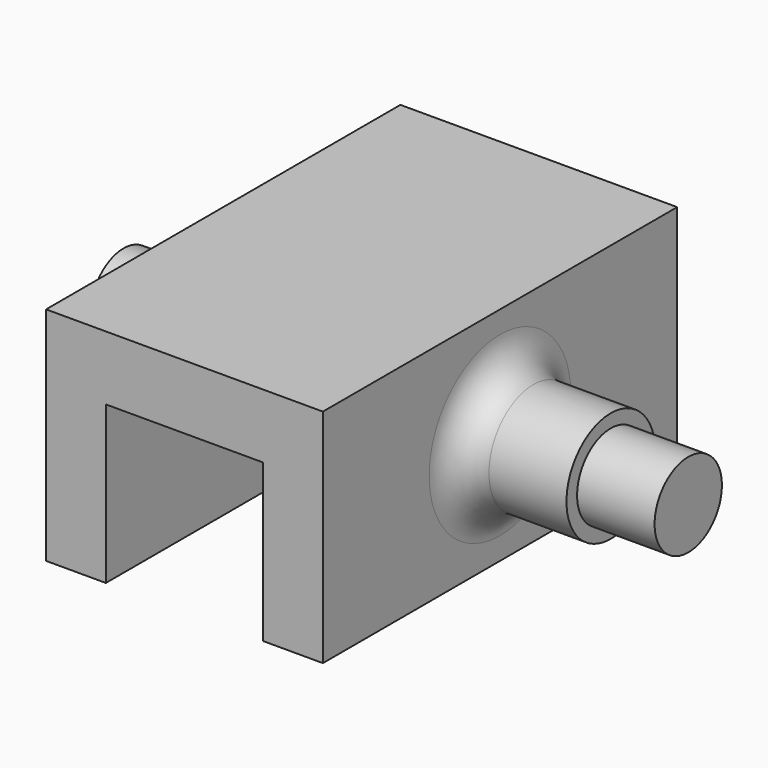
from build123d import *

# Parameters (mm, degrees)
SKETCH_W              = 25
SKETCH_H              = 40
PAD_DEPTH             = 20
SKETCH001_R           = 3.8
PAD001_DEPTH          = 17
PAD001_DEPTH_BACK     = 34
SKETCH002_R           = 5
PAD002_DEPTH          = 10
PAD002_DEPTH_BACK     = 27
SKETCH003_W           = 14.2
SKETCH003_H           = 14.2
POCKET_DEPTH          = 50
FILLET003_R           = 3
FILLET004_R           = 1
CLONE_PLACEMENT_ANGLE = 180


with BuildPart() as part:
    # Sketch → Pad (new body)
    with BuildSketch(Plane.XY):
        Rectangle(SKETCH_W, SKETCH_H)
    extrude(amount=PAD_DEPTH)

    # Sketch001 → Pad001 (new body, two sides)
    with BuildSketch(Plane(origin=(-12.5, 0, 0), x_dir=(0, -1, 0), z_dir=(-1, 0, 0))) as pad001_sk:
        with Locations((0, 10)):
            Circle(SKETCH001_R)
    extrude(amount=PAD001_DEPTH)
    extrude(pad001_sk.sketch, amount=-PAD001_DEPTH_BACK)

    # Sketch002 → Pad002 (new body, two sides)
    with BuildSketch(Plane(origin=(-12.5, 0, 0), x_dir=(0, -1, 0), z_dir=(-1, 0, 0))) as pad002_sk:
        with Locations((0, 10)):
            Circle(SKETCH002_R)
    extrude(amount=PAD002_DEPTH)
    extrude(pad002_sk.sketch, amount=-PAD002_DEPTH_BACK)

    # Sketch003 → Pocket (cut)
    with BuildSketch(Plane.XZ.offset(20)):
        with Locations((0, 7.1)):
            Rectangle(SKETCH003_W, SKETCH003_H)
    extrude(amount=-POCKET_DEPTH, mode=Mode.SUBTRACT)

    # Fillet003
    fillet003_edges = [part.edges().sort_by_distance(p)[0] for p in [
        (-12.5, 5, 10),
    ]]
    fillet(fillet003_edges, radius=FILLET003_R)

    # Fillet004
    fillet004_edges = [part.edges().sort_by_distance(p)[0] for p in [
        (12.5, 5, 10),
    ]]
    fillet(fillet004_edges, radius=FILLET004_R)


with BuildPart() as part_1:
    # Clone placement: moved
    add(part.part.moved(Location((45, 0, 0))).rotate(Axis((45, 0, 0), (0, 0, 1)), CLONE_PLACEMENT_ANGLE))


solid = part_1.part
